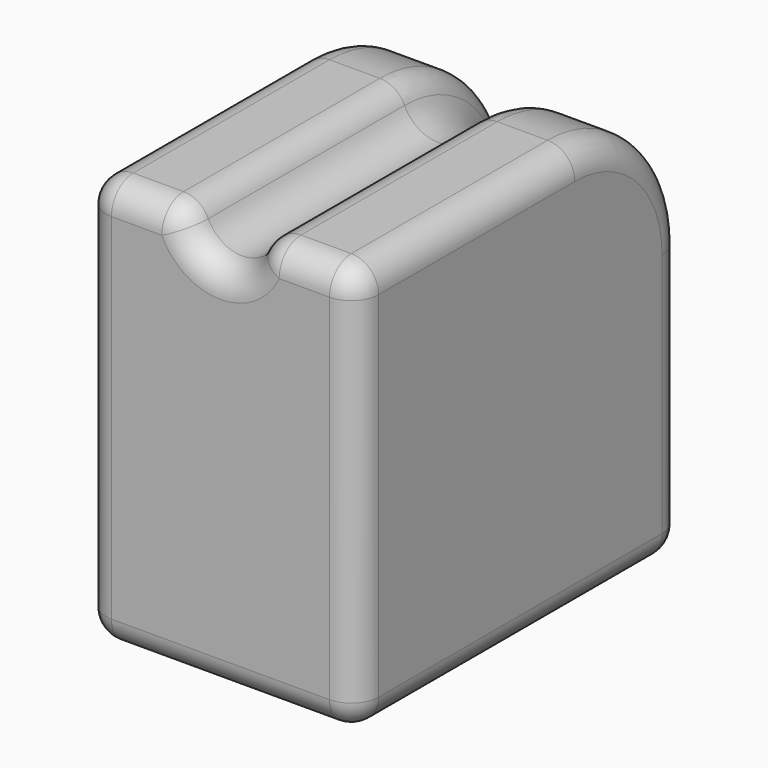
from build123d import *

# Parameters (mm, degrees)
F0_R     = 9.5
F0_R_2   = 8
F1_DEPTH = 150
F3_W     = 20
F3_H     = 30
F4_DEPTH = 30
F5_R     = 10
F9_R     = 2


with BuildPart() as f1:
    # F0 (on Top) → F1 (new body)
    with BuildSketch(Plane.XY):
        Circle(F0_R)
        Circle(F0_R_2, mode=Mode.SUBTRACT)
    extrude(amount=F1_DEPTH)


with BuildPart() as f4:
    # F3 (on Top) → F4 (new body)
    with BuildSketch(Plane.XY):
        Rectangle(F3_W, F3_H)
    extrude(amount=F4_DEPTH)

    # F5
    f5_edges = [f4.edges().sort_by_distance(p)[0] for p in [
        (0, 15, 30),
    ]]
    fillet(f5_edges, radius=F5_R)

    # F8: sweep along a path in F6
    with BuildLine(Plane.YZ) as f8_path:
        Line((15, 0), (15, 20))
        ThreePointArc((15, 20), (12.0710678119, 27.0710678119), (5, 30))
        Line((5, 30), (-15.0585370138, 30))
    # F7 (on face) → F8 (sweep, cut)
    with BuildSketch(Plane(origin=(0, 0, 0), x_dir=(1, 0, 0), z_dir=(0, 0, -1))):
        with BuildLine():
            Line((-2.75, -15), (2.75, -15))
            ThreePointArc((2.75, -15), (0, -12.25), (-2.75, -15))
        make_face()
    sweep(path=f8_path.line, mode=Mode.SUBTRACT)

    # F9
    f9_edges = [f4.edges().sort_by_distance(p)[0] for p in [
        (0, 5, 27.25),
        (-2.75, -5, 30),
        (0, -15, 27.25),
        (2.75, -5, 30),
        (2.75, 12.071068, 27.071068),
        (0, 12.25, 20),
        (-2.75, 12.071068, 27.071068),
        (2.75, 15, 10),
        (0, 12.25, 0),
        (-2.75, 15, 10),
        (-10, 12.071068, 27.071068),
        (10, 12.071068, 27.071068),
        (10, 15, 10),
        (10, 0, 0),
        (10, -5, 30),
        (10, -15, 15),
        (-10, 15, 10),
        (-10, 0, 0),
        (-10, -5, 30),
        (-10, -15, 15),
        (0, -15, 0),
        (-6.375, 15, 0),
        (6.375, 15, 0),
        (6.375, -15, 30),
        (-6.375, -15, 30),
    ]]
    fillet(f9_edges, radius=F9_R)


solid = f4.part
